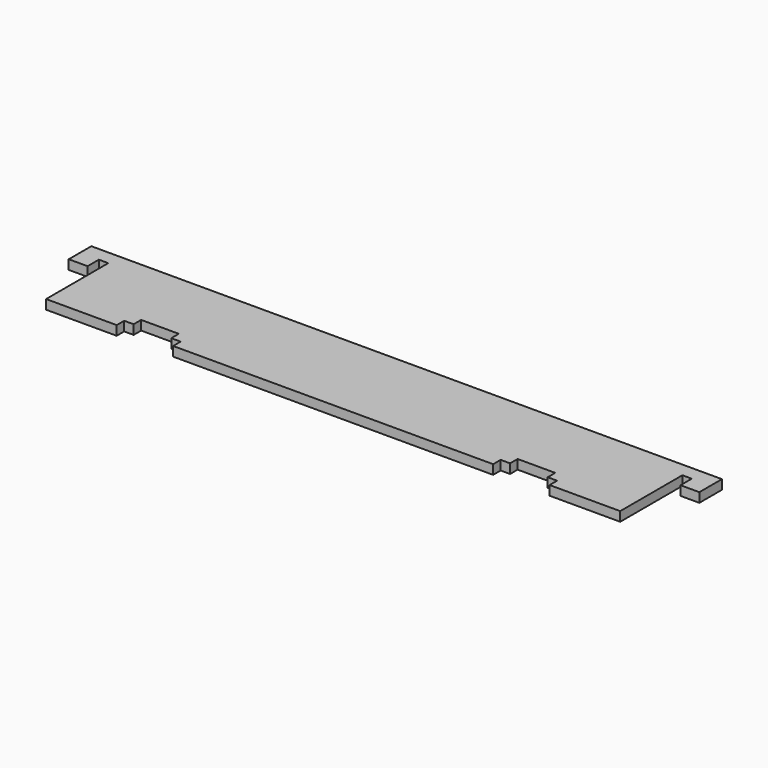
from build123d import *

# Parameters (mm, degrees)
F1_DEPTH = 6.35
F3_DEPTH = 6.35


with BuildPart() as f1:
    # F0 (on Top) → F1 (new body)
    with BuildSketch(Plane.XY):
        Polygon((-116.137687, 0), (-116.137687, -61.976), (-68.512687, -61.976), (-68.512687, -55.626), (-62.162687, -55.626), (-62.162687, -49.276), (-36.762687, -49.276), (-36.762687, -55.626), (-30.412687, -55.626), (-30.412687, -61.976), (185.487313, -61.976), (185.487313, -55.626), (191.837313, -55.626), (191.837313, -49.276), (217.237313, -49.276), (217.237313, -55.626), (223.587313, -55.626), (223.587313, -61.976), (271.212313, -61.976), (271.212313, 0), align=None)
    extrude(amount=F1_DEPTH)

    # F2 (on face) → F3 (join)
    with BuildSketch(Plane.XY.offset(6.35)):
        Polygon((290.262313, 0), (271.212313, 0), (271.212313, -9.525), (277.562313, -9.525), (277.562313, -19.05), (290.262313, -19.05), align=None)
        Polygon((-116.137687, -9.525), (-116.137687, 0), (-135.187687, 0), (-135.187687, -19.05), (-122.487687, -19.05), (-122.487687, -9.525), align=None)
    extrude(amount=-F3_DEPTH)


solid = f1.part
